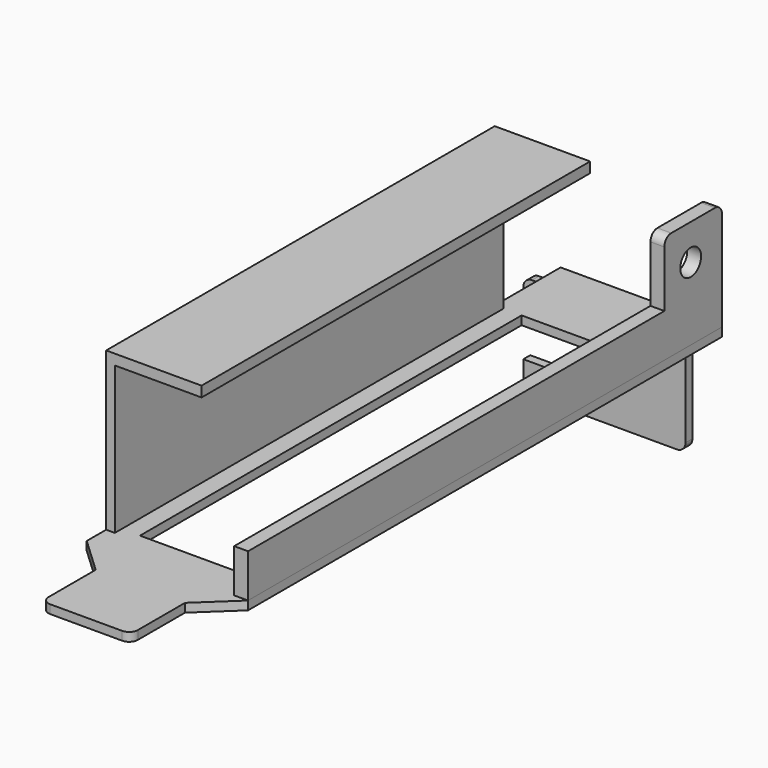
from build123d import *

# Parameters (mm, degrees)
F1_DEPTH  = 1
F2_R      = 1.15
F3_DEPTH  = 1
F4_W      = 12.5
F4_H      = 55
F5_DEPTH  = 1
F7_DEPTH  = 1
F9_DEPTH  = 1.6
F10_W     = 1
F10_H     = 56
F11_DEPTH = 18.2
F12_D     = 3
F13_W     = 56
F13_H     = 1.2
F14_DEPTH = 10


with BuildPart() as f1:
    # F0 (on Top) → F1 (new body)
    with BuildSketch(Plane.XY):
        with BuildLine():
            Line((-9.3, 0), (-1, 0))
            ThreePointArc((-1, 0), (-0.2928932188, 0.2928932188), (0, 1))
            Line((0, 1), (0, 7.8))
            Line((0, 7.8), (4.15, 11.7))
            Line((4.15, 11.7), (4.15, 73.4))
            Line((4.15, 73.4), (0.75, 76.5))
            Line((0.75, 76.5), (0.75, 80))
            Line((0.75, 80), (-14.45, 80))
            Line((-14.45, 80), (-14.45, 73.4))
            Line((-14.45, 73.4), (-14.45, 11.7))
            Line((-14.45, 11.7), (-10.3, 7.8))
            Line((-10.3, 7.8), (-10.3, 1))
            ThreePointArc((-10.3, 1), (-10.0071067812, 0.2928932188), (-9.3, 0))
        make_face()
    extrude(amount=F1_DEPTH)

    # F2 (on face) → F3 (join)
    with BuildSketch(Plane(origin=(0, 80, 0), x_dir=(-1, 0, 0), z_dir=(0, 1, 0))):
        with BuildLine():
            Line((14.45, -0.7), (14.45, 0))
            Line((14.45, 0), (-0.75, 0))
            Line((-0.75, 0), (-0.75, -11.45))
            ThreePointArc((-0.75, -11.45), (-0.4571067812, -12.1571067812), (0.25, -12.45))
            Line((0.25, -12.45), (16.95, -12.45))
            ThreePointArc((16.95, -12.45), (17.6571067812, -12.1571067812), (17.95, -11.45))
            Line((17.95, -11.45), (17.95, -9.05))
            Line((17.95, -9.05), (12.95, -9.05))
            ThreePointArc((12.95, -9.05), (11.25, -6.575), (12.95, -4.1))
            Line((12.95, -4.1), (17.95, -4.1))
            Line((17.95, -4.1), (17.95, -1.7))
            ThreePointArc((17.95, -1.7), (17.6571067812, -0.9928932188), (16.95, -0.7))
            Line((16.95, -0.7), (14.45, -0.7))
        make_face()
        with Locations((2.45, -9.25)):
            Circle(F2_R, mode=Mode.SUBTRACT)
        with Locations((2.45, -9.25)):
            Circle(F2_R)
    extrude(amount=-F3_DEPTH)

    # F4 (on face) → F5 (cut)
    with BuildSketch(Plane(origin=(0, 0, 0), x_dir=(1, 0, 0), z_dir=(0, 0, -1))):
        with Locations((-5.1, -43)):
            Rectangle(F4_W, F4_H)
    extrude(amount=-F5_DEPTH, mode=Mode.SUBTRACT)

    # F6 (on face) → F7 (join)
    with BuildSketch(Plane.XY.offset(1)):
        Polygon((0.75, 76.5), (4.15, 73.4), (4.15, 80), (0.75, 80), align=None)
    extrude(amount=-F7_DEPTH)

    # F10 (on face) → F11 (join)
    with BuildSketch(Plane.XY.offset(1)):
        with Locations((-13.95, 42.5)):
            Rectangle(F10_W, F10_H)
    extrude(amount=F11_DEPTH)

    # F13 (on face) → F14 (join)
    with BuildSketch(Plane.YZ.offset(-13.45)):
        with Locations((42.5, 18.6)):
            Rectangle(F13_W, F13_H)
    extrude(amount=F14_DEPTH)


with BuildPart() as f9:
    # F8 (on face) → F9 (new body)
    with BuildSketch(Plane.YZ.offset(4.15)):
        with BuildLine():
            Line((11.7, 1), (80, 1))
            Line((80, 1), (80, 12.5))
            ThreePointArc((80, 12.5), (79.7071067812, 13.2071067812), (79, 13.5))
            Line((79, 13.5), (72.7, 13.5))
            ThreePointArc((72.7, 13.5), (71.9928932188, 13.2071067812), (71.7, 12.5))
            Line((71.7, 12.5), (71.7, 6))
            Line((71.7, 6), (11.7, 6))
            Line((11.7, 6), (11.7, 1))
        make_face()
    extrude(amount=-F9_DEPTH)

    # F12 (through all)
    with Locations(Plane.YZ.offset(4.15)):
        with Locations((75.5, 9.4)):
            Hole(F12_D / 2)


solid = Compound([f1.part, f9.part])
